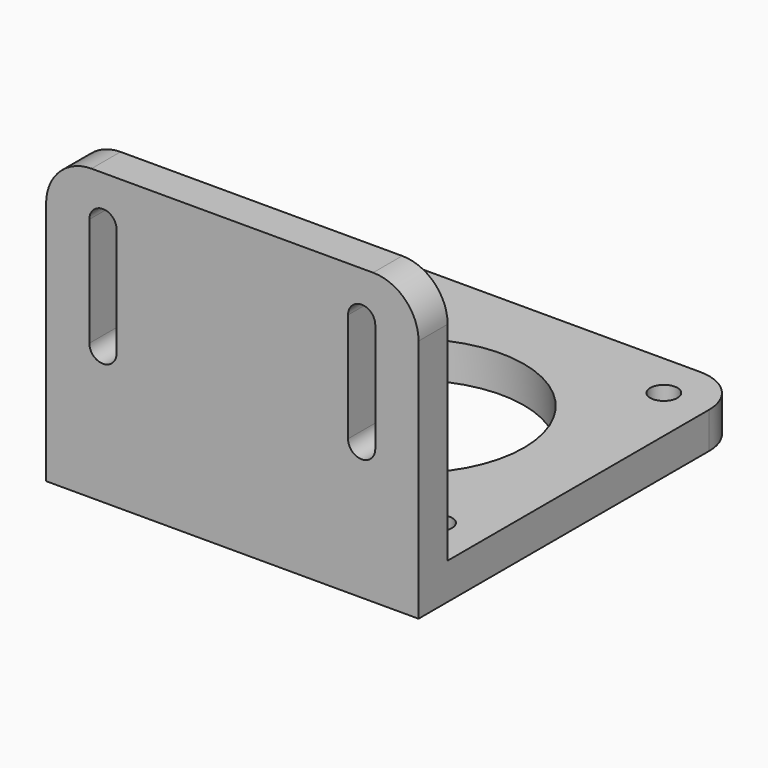
from build123d import *

# Parameters (mm, degrees)
F0_W     = 41
F0_H     = 41
F0_R     = 1.5
F1_DEPTH = 4
F2_R     = 5
F3_W     = 41
F3_H     = 27.909843
F3_H_2   = 4
F4_DEPTH = 4
F5_R     = 5


with BuildPart() as f1:
    # F0 (on Top) → F1 (new body)
    with BuildSketch(Plane.XY):
        Rectangle(F0_W, F0_H)
        with Locations((-15.5, -15.5)):
            Circle(F0_R, mode=Mode.SUBTRACT)
        with Locations((15.5, -15.5)):
            Circle(F0_R, mode=Mode.SUBTRACT)
        with BuildLine():
            ThreePointArc((-14.43934, 14.43934), (-16.56066, 14.43934), (-16.56066, 16.56066))
            ThreePointArc((-16.56066, 16.56066), (-14.925975, 16.885819), (-14, 15.5))
            ThreePointArc((-14, 15.5), (-14.114181, 14.925975), (-14.43934, 14.43934))
        make_face(mode=Mode.SUBTRACT)
        with BuildLine():
            ThreePointArc((12.5, 0), (-4.783543, -11.548494), (-8.838835, 8.838835))
            ThreePointArc((-8.838835, 8.838835), (4.783543, 11.548494), (12.5, 0))
        make_face(mode=Mode.SUBTRACT)
        with Locations((15.5, 15.5)):
            Circle(F0_R, mode=Mode.SUBTRACT)
    extrude(amount=F1_DEPTH)

    # F2
    f2_edges = [f1.edges().sort_by_distance(p)[0] for p in [
        (-20.5, 20.5, 2),
        (20.5, 20.5, 2),
    ]]
    fillet(f2_edges, radius=F2_R)

    # F3 (on face) → F4 (join)
    with BuildSketch(Plane.XZ.offset(20.5)):
        with Locations((0, 17.954921)):
            Rectangle(F3_W, F3_H)
        with BuildLine():
            Line((-15.738551, 14.909843), (-15.738551, 26.909843))
            ThreePointArc((-15.738551, 26.909843), (-14.238551, 28.409843), (-12.738551, 26.909843))
            Line((-12.738551, 26.909843), (-12.738551, 14.909843))
            ThreePointArc((-12.738551, 14.909843), (-14.238551, 13.409843), (-15.738551, 14.909843))
        make_face(mode=Mode.SUBTRACT)
        with BuildLine():
            ThreePointArc((12.738551, 26.909843), (14.238551, 28.409843), (15.738551, 26.909843))
            Line((15.738551, 26.909843), (15.738551, 14.909843))
            ThreePointArc((15.738551, 14.909843), (14.238551, 13.409843), (12.738551, 14.909843))
            Line((12.738551, 14.909843), (12.738551, 26.909843))
        make_face(mode=Mode.SUBTRACT)
        with Locations((0, 2)):
            Rectangle(F3_W, F3_H_2)
    extrude(amount=F4_DEPTH)

    # F5
    f5_edges = [f1.edges().sort_by_distance(p)[0] for p in [
        (20.5, -22.5, 31.909843),
        (-20.5, -22.5, 31.909843),
    ]]
    fillet(f5_edges, radius=F5_R)


solid = f1.part
